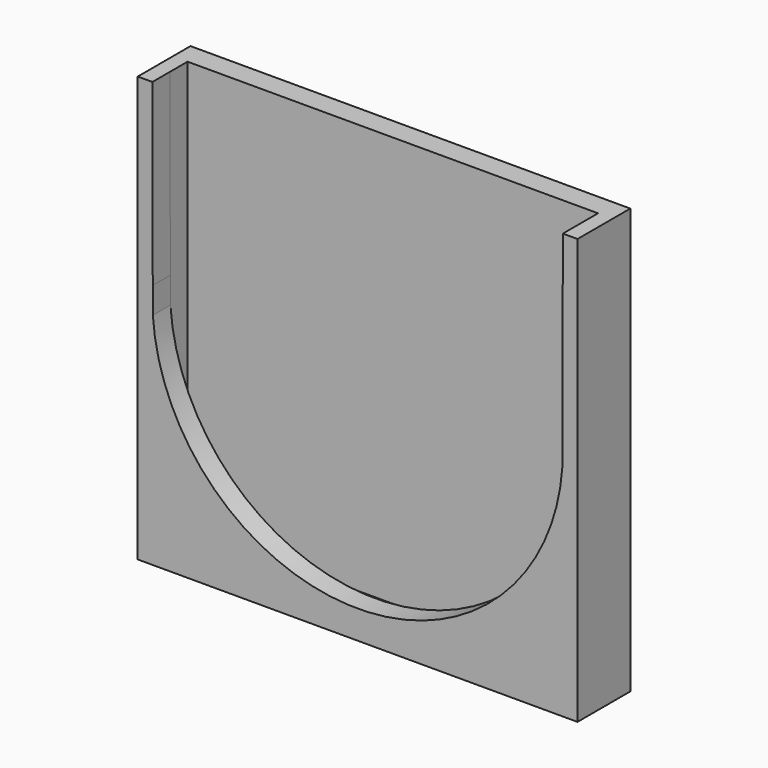
from build123d import *

# Parameters (mm, degrees)
F0_W     = 60
F0_H     = 58
F1_DEPTH = 3
F4_DEPTH = 3
F6_DEPTH = 3


with BuildPart() as f1:
    # F0 (on Front) → F1 (new body)
    with BuildSketch(Plane.XZ):
        with Locations((0, -1)):
            Rectangle(F0_W, F0_H)
    extrude(amount=-F1_DEPTH)

    # F3 (on face) → F4 (join)
    with BuildSketch(Plane.XZ):
        Polygon((28, -28), (-28, -28), (-28, 28), (-30, 28), (-30, -30), (30, -30), (30, 28), (28, 28), align=None)
    extrude(amount=F4_DEPTH)

    # F5 (on face) → F6 (join)
    with BuildSketch(Plane.XZ.offset(3)):
        with BuildLine():
            Line((-30, 28), (-30, -30))
            Line((-30, -30), (30, -30))
            Line((30, -30), (30, 28))
            Line((30, 28), (28, 28))
            Line((28, 28), (27.9462553992, 3.5910797608))
            ThreePointArc((27.9462553992, 3.5910797608), (27.9999321267, 1.7954129877), (27.9383484068, 0))
            ThreePointArc((27.9383484068, 0), (0, -26.1429355685), (-27.9383484068, 0))
            ThreePointArc((-27.9383484068, 0), (-27.9999321267, 1.7954129877), (-27.9462553992, 3.5910797608))
            Line((-27.9462553992, 3.5910797608), (-28, 28))
            Line((-28, 28), (-30, 28))
        make_face()
        with BuildLine():
            Line((-27.9383484068, 0), (-27.9462553992, 3.5910797608))
            ThreePointArc((-27.9462553992, 3.5910797608), (-27.9999321267, 1.7954129877), (-27.9383484068, 0))
        make_face()
        with BuildLine():
            ThreePointArc((27.9383484068, 0), (27.9999321267, 1.7954129877), (27.9462553992, 3.5910797608))
            Line((27.9462553992, 3.5910797608), (27.9383484068, 0))
        make_face()
    extrude(amount=F6_DEPTH)


solid = f1.part
